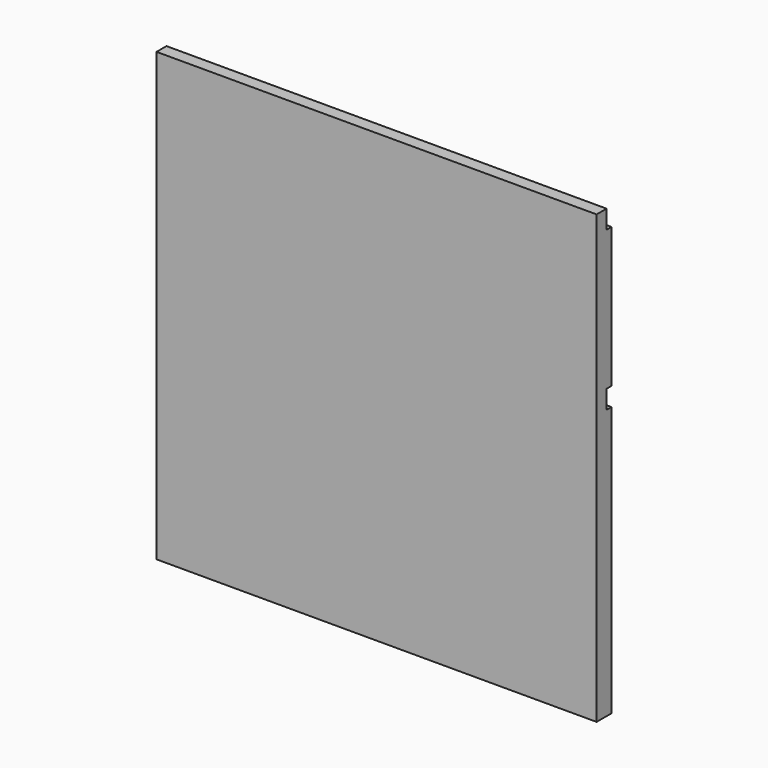
from build123d import *

# Parameters (mm, degrees)
F0_W     = 457.2
F0_H     = 464.185
F1_DEPTH = 19.304
F2_W     = 457.2
F2_H     = 19.304
F3_DEPTH = 6.35


with BuildPart() as f1:
    # F0 (on Front) → F1 (new body)
    with BuildSketch(Plane.XZ):
        Rectangle(F0_W, F0_H)
    extrude(amount=F1_DEPTH)

    # F2 (on face) → F3 (cut)
    with BuildSketch(Plane(origin=(0, 0, 0), x_dir=(-1, 0, 0), z_dir=(0, 1, 0))):
        with Locations((0, 222.4405)):
            Rectangle(F2_W, F2_H)
        with Locations((0, 57.7215)):
            Rectangle(F2_W, F2_H)
    extrude(amount=-F3_DEPTH, mode=Mode.SUBTRACT)


solid = f1.part
